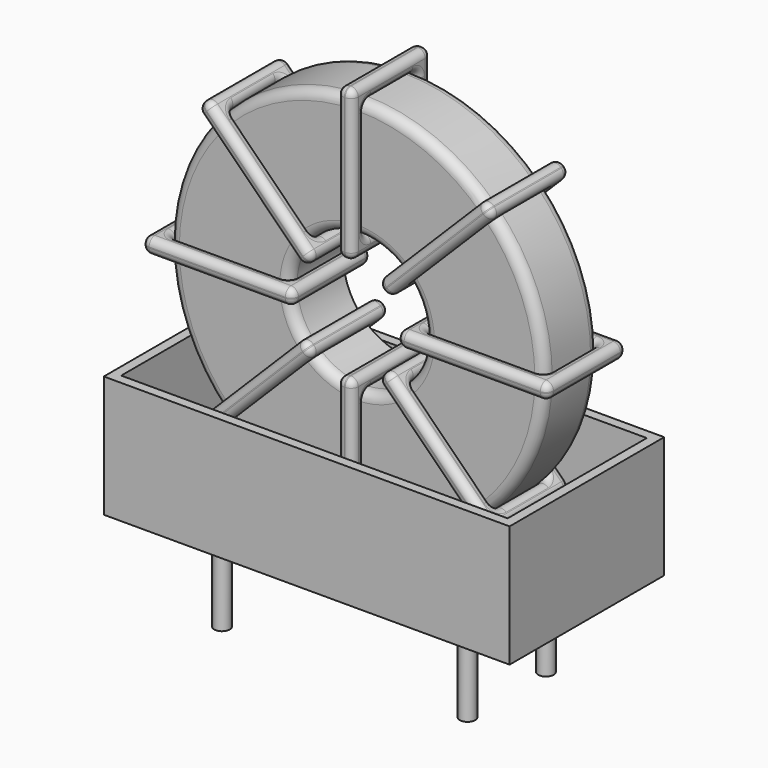
from build123d import *

# Parameters (mm, degrees)
SKETCH_R      = 9.7
SKETCH_R_2    = 3.5
PAD_DEPTH     = 1.74
FILLET_R      = 0.5
SKETCH003_W   = 7.8
SKETCH003_H   = 5.08
SKETCH003_W_2 = 6.2
SKETCH003_H_2 = 3.48
PAD002_DEPTH  = 0.4
FILLET001_R   = 0.376
SKETCH004_W   = 7.8
SKETCH004_H   = 5.08
SKETCH004_W_2 = 6.2
SKETCH004_H_2 = 3.48
PAD003_DEPTH  = 0.4
FILLET002_R   = 0.376
SKETCH005_W   = 7.8
SKETCH005_H   = 5.08
SKETCH005_W_2 = 6.2
SKETCH005_H_2 = 3.48
PAD004_DEPTH  = 0.4
FILLET003_R   = 0.376
SKETCH006_W   = 7.8
SKETCH006_H   = 5.08
SKETCH006_W_2 = 6.2
SKETCH006_H_2 = 3.48
PAD005_DEPTH  = 0.4
FILLET004_R   = 0.376
SKETCH007_W   = 21
SKETCH007_H   = 10
PAD006_DEPTH  = 0.5
SKETCH008_W   = 21
SKETCH008_H   = 10
SKETCH008_W_2 = 20
SKETCH008_H_2 = 9
PAD007_DEPTH  = 6.3
SKETCH001_R   = 0.4
PAD001_DEPTH  = 5


with BuildPart() as fillet_body:
    # Sketch → Pad (new body, symmetric)
    with BuildSketch(Plane(origin=(6.35, -2.54, 0), x_dir=(1, 0, 0), z_dir=(0, -1, 0))):
        with Locations((0, 11.8)):
            Circle(SKETCH_R)
        with Locations((0, 11.8)):
            Circle(SKETCH_R_2, mode=Mode.SUBTRACT)
    extrude(amount=PAD_DEPTH, both=True)

    # Fillet
    fillet_edges = [fillet_body.edges().sort_by_distance(p)[0] for p in [
        (2.85, -4.28, 11.8),
        (-3.35, -4.28, 11.8),
        (-3.35, -0.8, 11.8),
    ]]
    fillet(fillet_edges, radius=FILLET_R)


with BuildPart() as fillet001:
    # Sketch003 → Pad002 (new body, symmetric)
    with BuildSketch(Plane(origin=(6.35, 0, 11.8), x_dir=(1, 0, 0), z_dir=(0, 0, -1))):
        with Locations((-6.6, 2.54)):
            Rectangle(SKETCH003_W, SKETCH003_H)
        with Locations((-6.6, 2.54)):
            Rectangle(SKETCH003_W_2, SKETCH003_H_2, mode=Mode.SUBTRACT)
        with Locations((6.6, 2.54)):
            Rectangle(SKETCH003_W, SKETCH003_H)
        with Locations((6.6, 2.54)):
            Rectangle(SKETCH003_W_2, SKETCH003_H_2, mode=Mode.SUBTRACT)
    extrude(amount=PAD002_DEPTH, both=True)

    # Fillet001
    fillet001_edges = [fillet001.edges().sort_by_distance(p)[0] for p in [
        (2.85, -4.28, 11.8),
        (2.85, -0.8, 11.8),
        (2.85, -2.54, 12.2),
        (2.85, -2.54, 11.4),
        (-4.15, -5.08, 11.8),
        (3.65, -5.08, 11.8),
        (-0.25, -5.08, 12.2),
        (-0.25, -5.08, 11.4),
        (3.65, 0, 11.8),
        (3.65, -2.54, 12.2),
        (3.65, -2.54, 11.4),
        (9.85, -4.28, 11.8),
        (16.05, -4.28, 11.8),
        (12.95, -4.28, 12.2),
        (12.95, -4.28, 11.4),
        (16.05, -0.8, 11.8),
        (16.05, -2.54, 12.2),
        (16.05, -2.54, 11.4),
        (9.05, -5.08, 11.8),
        (16.85, -5.08, 11.8),
        (12.95, -5.08, 12.2),
        (12.95, -5.08, 11.4),
        (16.85, 0, 11.8),
        (16.85, -2.54, 12.2),
        (16.85, -2.54, 11.4),
        (-3.35, -4.28, 11.8),
        (-0.25, -4.28, 12.2),
        (-0.25, -4.28, 11.4),
        (9.85, -0.8, 11.8),
        (9.85, -2.54, 12.2),
        (9.85, -2.54, 11.4),
        (12.95, -0.8, 12.2),
        (12.95, -0.8, 11.4),
        (9.05, 0, 11.8),
        (12.95, 0, 12.2),
        (12.95, 0, 11.4),
        (9.05, -2.54, 12.2),
        (9.05, -2.54, 11.4),
        (-4.15, 0, 11.8),
        (-0.25, 0, 12.2),
        (-0.25, 0, 11.4),
        (-4.15, -2.54, 12.2),
        (-4.15, -2.54, 11.4),
        (-3.35, -0.8, 11.8),
        (-3.35, -2.54, 12.2),
        (-3.35, -2.54, 11.4),
        (-0.25, -0.8, 12.2),
        (-0.25, -0.8, 11.4),
    ]]
    fillet(fillet001_edges, radius=FILLET001_R)


with BuildPart() as fillet002:
    # Sketch004 → Pad003 (new body, symmetric)
    with BuildSketch(Plane(origin=(6.35, 0, 11.8), x_dir=(0.707108, 0, 0.707106), z_dir=(0.707106, 0, -0.707108))):
        with Locations((-6.6, 2.54)):
            Rectangle(SKETCH004_W, SKETCH004_H)
        with Locations((-6.6, 2.54)):
            Rectangle(SKETCH004_W_2, SKETCH004_H_2, mode=Mode.SUBTRACT)
        with Locations((6.6, 2.54)):
            Rectangle(SKETCH004_W, SKETCH004_H)
        with Locations((6.6, 2.54)):
            Rectangle(SKETCH004_W_2, SKETCH004_H_2, mode=Mode.SUBTRACT)
    extrude(amount=PAD003_DEPTH, both=True)

    # Fillet002
    fillet002_edges = [fillet002.edges().sort_by_distance(p)[0] for p in [
        (-0.508944, -4.28, 4.941072),
        (3.875123, -0.8, 9.325129),
        (1.400247, -0.8, 7.415944),
        (1.965932, -0.8, 6.850258),
        (-1.07463, -5.08, 4.375387),
        (4.440809, -5.08, 9.890814),
        (1.400247, -5.08, 7.415944),
        (1.965932, -5.08, 6.850258),
        (4.440809, 0, 9.890814),
        (4.157967, -2.54, 10.173657),
        (4.723652, -2.54, 9.607971),
        (8.824877, -4.28, 14.274871),
        (13.208944, -4.28, 18.658928),
        (10.734068, -4.28, 16.749742),
        (11.299753, -4.28, 16.184056),
        (13.208944, -0.8, 18.658928),
        (12.926101, -2.54, 18.941771),
        (13.491786, -2.54, 18.376085),
        (8.259191, -5.08, 13.709186),
        (13.77463, -5.08, 19.224613),
        (10.734068, -5.08, 16.749742),
        (11.299753, -5.08, 16.184056),
        (13.77463, 0, 19.224613),
        (13.491787, -2.54, 19.507456),
        (14.057472, -2.54, 18.94177),
        (-0.508944, -0.8, 4.941072),
        (-0.791786, -2.54, 5.223915),
        (-0.226101, -2.54, 4.658229),
        (8.824877, -0.8, 14.274871),
        (8.542034, -2.54, 14.557714),
        (9.107719, -2.54, 13.992028),
        (10.734068, -0.8, 16.749742),
        (11.299753, -0.8, 16.184056),
        (8.259191, 0, 13.709186),
        (10.734068, 0, 16.749742),
        (11.299753, 0, 16.184056),
        (7.976348, -2.54, 13.992029),
        (8.542033, -2.54, 13.426343),
        (-1.07463, 0, 4.375387),
        (1.400247, 0, 7.415944),
        (1.965932, 0, 6.850258),
        (-1.357472, -2.54, 4.65823),
        (-0.791787, -2.54, 4.092544),
        (3.875123, -4.28, 9.325129),
        (1.400247, -4.28, 7.415944),
        (1.965932, -4.28, 6.850258),
        (3.592281, -2.54, 9.607972),
        (4.157966, -2.54, 9.042286),
    ]]
    fillet(fillet002_edges, radius=FILLET002_R)


with BuildPart() as fillet003:
    # Sketch005 → Pad004 (new body, symmetric)
    with BuildSketch(Plane(origin=(6.35, 0, 11.8), x_dir=(0.707108, 0, -0.707106), z_dir=(-0.707106, 0, -0.707108))):
        with Locations((-6.6, 2.54)):
            Rectangle(SKETCH005_W, SKETCH005_H)
        with Locations((-6.6, 2.54)):
            Rectangle(SKETCH005_W_2, SKETCH005_H_2, mode=Mode.SUBTRACT)
        with Locations((6.6, 2.54)):
            Rectangle(SKETCH005_W, SKETCH005_H)
        with Locations((6.6, 2.54)):
            Rectangle(SKETCH005_W_2, SKETCH005_H_2, mode=Mode.SUBTRACT)
    extrude(amount=PAD004_DEPTH, both=True)

    # Fillet003
    fillet003_edges = [fillet003.edges().sort_by_distance(p)[0] for p in [
        (-0.508944, -4.28, 18.658928),
        (3.875123, -0.8, 14.274871),
        (1.965932, -0.8, 16.749742),
        (1.400247, -0.8, 16.184056),
        (-1.07463, -5.08, 19.224613),
        (4.440809, -5.08, 13.709186),
        (1.965932, -5.08, 16.749742),
        (1.400247, -5.08, 16.184056),
        (4.440809, 0, 13.709186),
        (4.723652, -2.54, 13.992029),
        (4.157967, -2.54, 13.426343),
        (8.824877, -4.28, 9.325129),
        (13.208944, -4.28, 4.941072),
        (11.299753, -4.28, 7.415944),
        (10.734068, -4.28, 6.850258),
        (13.208944, -0.8, 4.941072),
        (13.491786, -2.54, 5.223915),
        (12.926101, -2.54, 4.658229),
        (8.259191, -5.08, 9.890814),
        (13.77463, -5.08, 4.375387),
        (11.299753, -5.08, 7.415944),
        (10.734068, -5.08, 6.850258),
        (13.77463, 0, 4.375387),
        (14.057472, -2.54, 4.65823),
        (13.491787, -2.54, 4.092544),
        (-0.508944, -0.8, 18.658928),
        (-0.226101, -2.54, 18.941771),
        (-0.791786, -2.54, 18.376085),
        (8.824877, -0.8, 9.325129),
        (9.107719, -2.54, 9.607972),
        (8.542034, -2.54, 9.042286),
        (11.299753, -0.8, 7.415944),
        (10.734068, -0.8, 6.850258),
        (8.259191, 0, 9.890814),
        (11.299753, 0, 7.415944),
        (10.734068, 0, 6.850258),
        (8.542033, -2.54, 10.173657),
        (7.976348, -2.54, 9.607971),
        (-1.07463, 0, 19.224613),
        (1.965932, 0, 16.749742),
        (1.400247, 0, 16.184056),
        (-0.791787, -2.54, 19.507456),
        (-1.357472, -2.54, 18.94177),
        (3.875123, -4.28, 14.274871),
        (1.965932, -4.28, 16.749742),
        (1.400247, -4.28, 16.184056),
        (4.157966, -2.54, 14.557714),
        (3.592281, -2.54, 13.992028),
    ]]
    fillet(fillet003_edges, radius=FILLET003_R)


with BuildPart() as fillet004:
    # Sketch006 → Pad005 (new body, symmetric)
    with BuildSketch(Plane(origin=(6.35, 0, 11.8), x_dir=(0, 0, 1), z_dir=(1, 0, 0))):
        with Locations((-6.6, 2.54)):
            Rectangle(SKETCH006_W, SKETCH006_H)
        with Locations((-6.6, 2.54)):
            Rectangle(SKETCH006_W_2, SKETCH006_H_2, mode=Mode.SUBTRACT)
        with Locations((6.6, 2.54)):
            Rectangle(SKETCH006_W, SKETCH006_H)
        with Locations((6.6, 2.54)):
            Rectangle(SKETCH006_W_2, SKETCH006_H_2, mode=Mode.SUBTRACT)
    extrude(amount=PAD005_DEPTH, both=True)

    # Fillet004
    fillet004_edges = [fillet004.edges().sort_by_distance(p)[0] for p in [
        (6.35, -4.28, 21.5),
        (6.35, -0.8, 21.5),
        (5.95, -2.54, 21.5),
        (6.75, -2.54, 21.5),
        (6.35, 0, 22.3),
        (6.35, 0, 14.5),
        (5.95, 0, 18.4),
        (6.75, 0, 18.4),
        (6.35, -5.08, 14.5),
        (5.95, -2.54, 14.5),
        (6.75, -2.54, 14.5),
        (6.35, -4.28, 2.1),
        (6.35, -4.28, 8.3),
        (5.95, -4.28, 5.2),
        (6.75, -4.28, 5.2),
        (6.35, -0.8, 8.3),
        (5.95, -2.54, 8.3),
        (6.75, -2.54, 8.3),
        (6.35, 0, 9.1),
        (6.35, 0, 1.3),
        (5.95, 0, 5.2),
        (6.75, 0, 5.2),
        (6.35, -5.08, 1.3),
        (5.95, -2.54, 1.3),
        (6.75, -2.54, 1.3),
        (6.35, -4.28, 15.3),
        (5.95, -4.28, 18.4),
        (6.75, -4.28, 18.4),
        (6.35, -0.8, 2.1),
        (5.95, -2.54, 2.1),
        (6.75, -2.54, 2.1),
        (5.95, -0.8, 5.2),
        (6.75, -0.8, 5.2),
        (6.35, -5.08, 9.1),
        (5.95, -5.08, 5.2),
        (6.75, -5.08, 5.2),
        (5.95, -2.54, 9.1),
        (6.75, -2.54, 9.1),
        (6.35, -5.08, 22.3),
        (5.95, -5.08, 18.4),
        (6.75, -5.08, 18.4),
        (5.95, -2.54, 22.3),
        (6.75, -2.54, 22.3),
        (6.35, -0.8, 15.3),
        (5.95, -2.54, 15.3),
        (6.75, -2.54, 15.3),
        (5.95, -0.8, 18.4),
        (6.75, -0.8, 18.4),
    ]]
    fillet(fillet004_edges, radius=FILLET004_R)


with BuildPart() as pad006:
    # Sketch007 → Pad006 (new body)
    with BuildSketch(Plane(origin=(6.35, 0, 0.5), x_dir=(1, 0, 0), z_dir=(0, 0, 1))):
        with Locations((0, -2.54)):
            Rectangle(SKETCH007_W, SKETCH007_H)
    extrude(amount=PAD006_DEPTH)


with BuildPart() as pad007:
    # Sketch008 → Pad007 (new body)
    with BuildSketch(Plane(origin=(6.35, 0, 0.5), x_dir=(1, 0, 0), z_dir=(0, 0, 1))):
        with Locations((0, -2.54)):
            Rectangle(SKETCH008_W, SKETCH008_H)
        with Locations((0, -2.54)):
            Rectangle(SKETCH008_W_2, SKETCH008_H_2, mode=Mode.SUBTRACT)
    extrude(amount=PAD007_DEPTH)


with BuildPart() as obj1:
    # Sketch001 → Pad001 (new body)
    with BuildSketch(Plane.XY.offset(0.75)):
        Circle(SKETCH001_R)
        with Locations((12.7, -5.08)):
            Circle(SKETCH001_R)
        with Locations((0, -5.08)):
            Circle(SKETCH001_R)
        with Locations((12.7, 0)):
            Circle(SKETCH001_R)
    extrude(amount=-PAD001_DEPTH)

    # obj1: union Fillet body, Fillet001, Fillet002, Fillet003, Fillet004, Pad006, Pad007
    add(fillet_body.part)
    add(fillet001.part)
    add(fillet002.part)
    add(fillet003.part)
    add(fillet004.part)
    add(pad006.part)
    add(pad007.part)


solid = obj1.part
